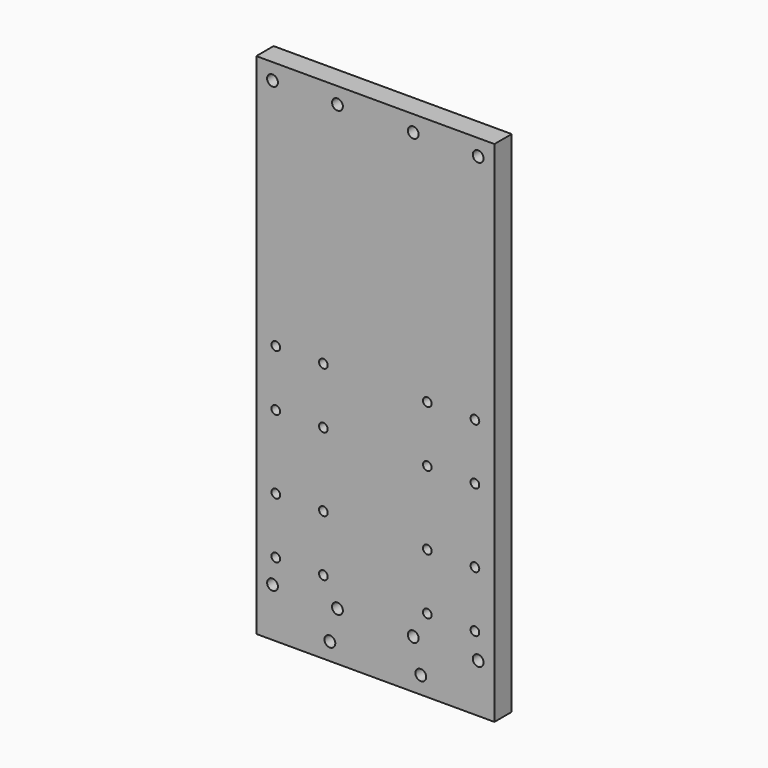
from build123d import *

# Parameters (mm, degrees)
F0_W      = 110
F0_H      = 94
F1_DEPTH  = 10
F2_R      = 2
F3_DEPTH  = 25
F4_W      = 110
F4_H      = 111
F4_H_2    = 15
F5_DEPTH  = 10
F6_R      = 2.5
F7_DEPTH  = 25
F8_W      = 110
F8_H      = 15
F9_DEPTH  = 10
F10_R     = 2.5
F11_DEPTH = 25


with BuildPart() as f1:
    # F0 (on Front) → F1 (new body)
    with BuildSketch(Plane.XZ):
        Rectangle(F0_W, F0_H)
    extrude(amount=F1_DEPTH)

    # F2 (on face) → F3 (cut)
    with BuildSketch(Plane.XZ.offset(10)):
        with Locations((-46, 43)):
            Circle(F2_R)
        with Locations((-24, 43)):
            Circle(F2_R)
        with Locations((-46, 17)):
            Circle(F2_R)
        with Locations((-24, 17)):
            Circle(F2_R)
        with Locations((46, 43)):
            Circle(F2_R)
        with Locations((24, 43)):
            Circle(F2_R)
        with Locations((24, 17)):
            Circle(F2_R)
        with Locations((46, 17)):
            Circle(F2_R)
        with Locations((-46, -17)):
            Circle(F2_R)
        with Locations((-46, -43)):
            Circle(F2_R)
        with Locations((-24, -43)):
            Circle(F2_R)
        with Locations((-24, -17)):
            Circle(F2_R)
        with Locations((24, -17)):
            Circle(F2_R)
        with Locations((24, -43)):
            Circle(F2_R)
        with Locations((46, -43)):
            Circle(F2_R)
        with Locations((46, -17)):
            Circle(F2_R)
    extrude(amount=-F3_DEPTH, mode=Mode.SUBTRACT)

    # F4 (on Front) → F5 (join)
    with BuildSketch(Plane.XZ):
        with Locations((0, 102.5)):
            Rectangle(F4_W, F4_H)
        with Locations((0, -54.5)):
            Rectangle(F4_W, F4_H_2)
    extrude(amount=F5_DEPTH)

    # F6 (on face) → F7 (cut)
    with BuildSketch(Plane.XZ.offset(10)):
        with Locations((-47.5, -54.5)):
            Circle(F6_R)
        with Locations((-17.5, -54.5)):
            Circle(F6_R)
        with Locations((17.5, -54.5)):
            Circle(F6_R)
        with Locations((47.5, -54.5)):
            Circle(F6_R)
        with Locations((-47.5, 150.5)):
            Circle(F6_R)
        with Locations((-17.5, 150.5)):
            Circle(F6_R)
        with Locations((17.5, 150.5)):
            Circle(F6_R)
        with Locations((47.5, 150.5)):
            Circle(F6_R)
    extrude(amount=-F7_DEPTH, mode=Mode.SUBTRACT)

    # F8 (on Front) → F9 (join)
    with BuildSketch(Plane.XZ):
        with Locations((0, -69.5)):
            Rectangle(F8_W, F8_H)
    extrude(amount=F9_DEPTH)

    # F10 (on face) → F11 (cut)
    with BuildSketch(Plane.XZ.offset(10)):
        with Locations((-21, -69)):
            Circle(F10_R)
        with Locations((21, -69)):
            Circle(F10_R)
    extrude(amount=-F11_DEPTH, mode=Mode.SUBTRACT)


solid = f1.part
